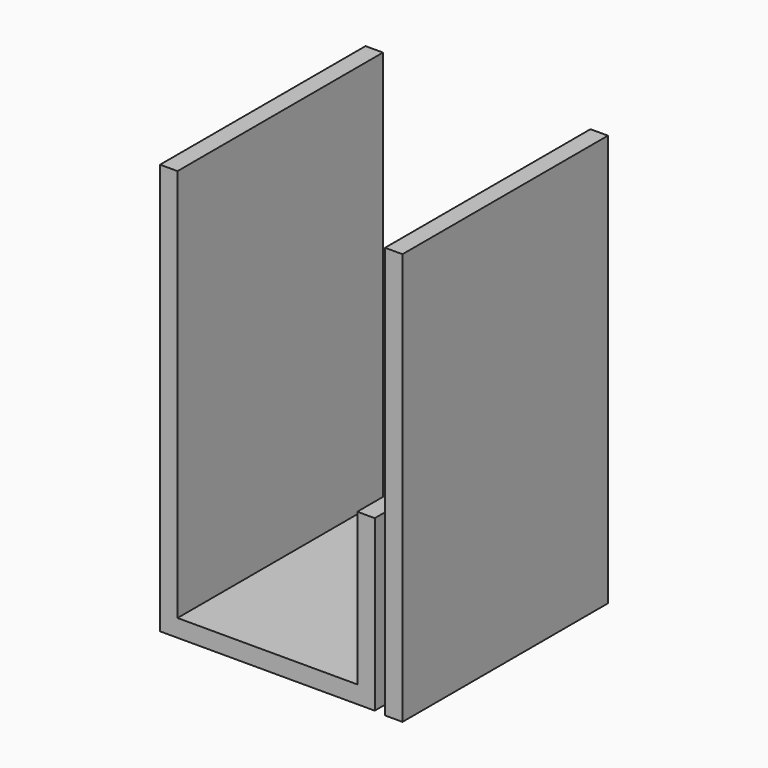
from build123d import *

# Parameters (mm, degrees)
F0_W     = 1.7
F0_H     = 40.085336
F1_DEPTH = 12.5


with BuildPart() as f1:
    # F0 (on Front) → F1 (new body, symmetric)
    with BuildSketch(Plane.XZ):
        Polygon((17.5, 0), (0, 0), (0, 38.3), (-1.7, 38.3), (-1.7, -1.7), (19.2, -1.7), (19.2, 14.8), (17.5, 14.8), align=None)
        with Locations((21.05, 18.257332)):
            Rectangle(F0_W, F0_H)
    extrude(amount=F1_DEPTH, both=True)


solid = f1.part
